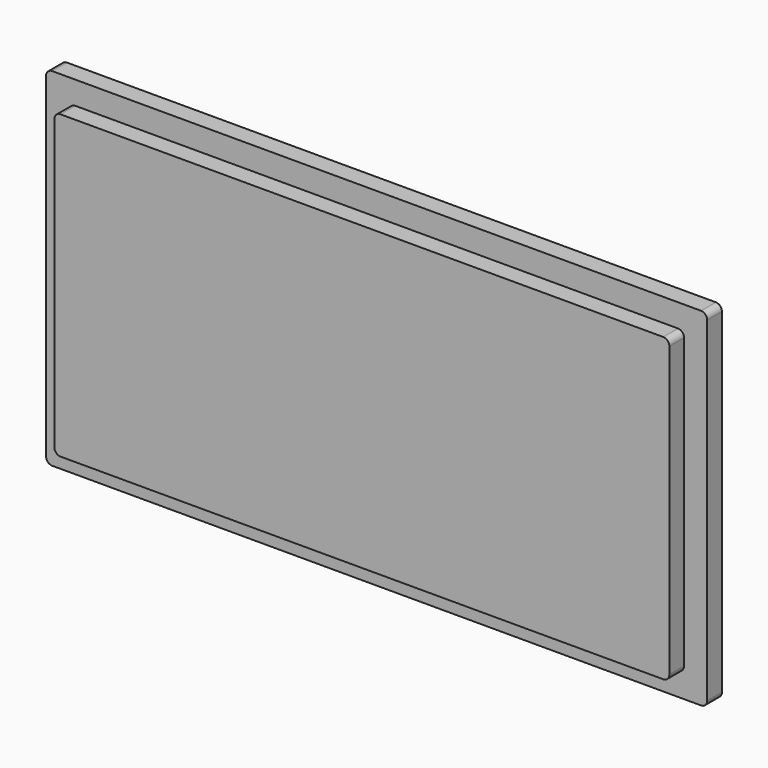
from build123d import *

# Parameters (mm, degrees)
PAD_DEPTH    = 6
SKETCH001_W  = 150
SKETCH001_H  = 73.5
POCKET_DEPTH = 3


with BuildPart() as part:
    # Sketch → Pad (new body)
    with BuildSketch(Plane.XZ):
        with BuildLine():
            Line((-52.75, 28.25), (52.75, 28.25))
            ThreePointArc((53.75, 27.25), (53.457107, 27.957107), (52.75, 28.25))
            Line((53.75, 27.25), (53.75, -27.25))
            ThreePointArc((52.75, -28.25), (53.457107, -27.957107), (53.75, -27.25))
            Line((52.75, -28.25), (-52.75, -28.25))
            ThreePointArc((-53.75, -27.25), (-53.457107, -27.957107), (-52.75, -28.25))
            Line((-53.75, -27.25), (-53.75, 27.25))
            ThreePointArc((-52.75, 28.25), (-53.457107, 27.957107), (-53.75, 27.25))
        make_face()
    extrude(amount=-PAD_DEPTH)

    # Sketch001 → Pocket (cut)
    with BuildSketch(Plane.XZ):
        Rectangle(SKETCH001_W, SKETCH001_H)
        with BuildLine():
            Line((-49, 24.5), (49, 24.5))
            ThreePointArc((50, 23.5), (49.707107, 24.207107), (49, 24.5))
            Line((50, 23.5), (50, -23.5))
            ThreePointArc((49, -24.5), (49.707107, -24.207107), (50, -23.5))
            Line((49, -24.5), (-49, -24.5))
            ThreePointArc((-50, -23.5), (-49.707107, -24.207107), (-49, -24.5))
            Line((-50, -23.5), (-50, 23.5))
            ThreePointArc((-49, 24.5), (-49.707107, 24.207107), (-50, 23.5))
        make_face(mode=Mode.SUBTRACT)
    extrude(amount=-POCKET_DEPTH, mode=Mode.SUBTRACT)


solid = part.part
